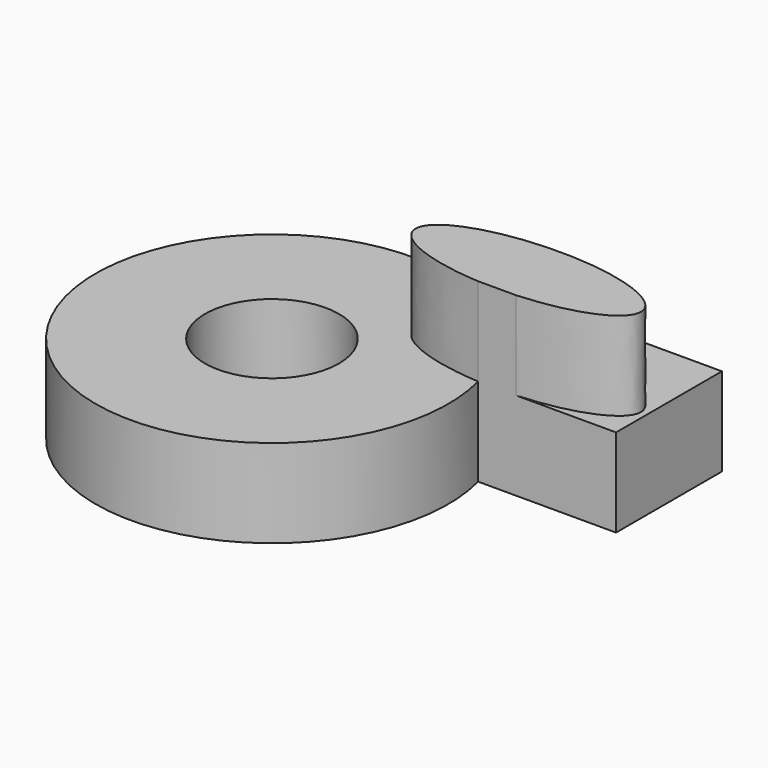
from build123d import *

# Parameters (mm, degrees)
F1_DEPTH = 25.4
F2_R     = 19.304
F3_DEPTH = 25.4
F5_DEPTH = 25.4


with BuildPart() as f1:
    # F0 (on Top) → F1 (new body)
    with BuildSketch(Plane.XY):
        with BuildLine():
            Line((25.4, 50.8), (25.4, 43.9940905122))
            ThreePointArc((25.4, 43.9940905122), (-40.4429352194, -30.7409985336), (49.1868884968, 12.7))
            Line((49.1868884968, 12.7), (88.9, 12.7))
            Line((88.9, 12.7), (88.9, 50.8))
            Line((88.9, 50.8), (25.4, 50.8))
        make_face()
    extrude(amount=F1_DEPTH)

    # F2 (on face) → F3 (cut)
    with BuildSketch(Plane.XY.offset(25.4)):
        Circle(F2_R)
    extrude(amount=-F3_DEPTH, mode=Mode.SUBTRACT)

    # F4 (on face) → F5 (join)
    with BuildSketch(Plane.XY.offset(25.4)):
        with BuildLine():
            add(Edge.make_bspline(
                [(60.102772553, 12.7), (87.0769461658, 14.318798375), (87.0769461658, 23.9380020648)],
                knots=[4.8814818134, 4.8814818134, 4.8814818134, 6.2831853072, 6.2831853072, 6.2831853072], degree=2, weights=[1, 0.7642931995, 1]))
            add(Edge.make_bspline(
                [(87.0769461658, 23.9380020648), (87.0769461658, 48.4737315929), (33.7303676113, 32.6514025486), (-19.6162109432, 16.8290735043), (49.1868884968, 12.7)],
                knots=[0, 0, 0, 2.2716480737, 2.2716480737, 4.5432961473, 4.5432961473, 4.5432961473], degree=2, weights=[1, 0.4213852718, 1, 0.4213852718, 1]))
            Line((49.1868884968, 12.7), (60.102772553, 12.7))
        make_face()
    extrude(amount=F5_DEPTH)


solid = f1.part
